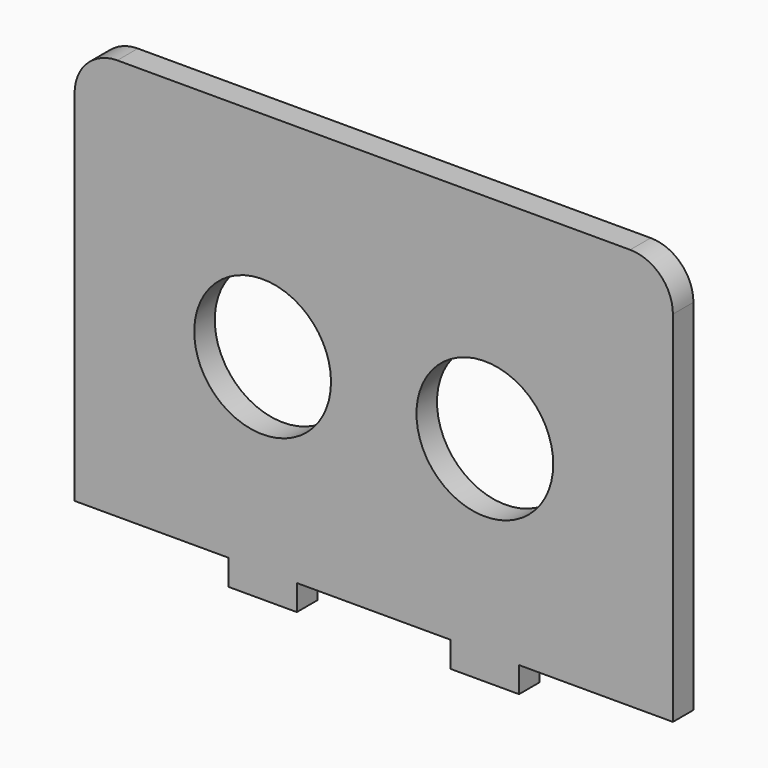
from build123d import *

# Parameters (mm, degrees)
F0_R     = 8
F1_DEPTH = 3


with BuildPart() as f1:
    # F0 (on Front) → F1 (new body)
    with BuildSketch(Plane.XZ):
        with BuildLine():
            Line((30, 25), (-30, 25))
            ThreePointArc((-30, 25), (-33.535534, 23.535534), (-35, 20))
            Line((-35, 20), (-35, -22))
            Line((-35, -22), (-17, -22))
            Line((-17, -22), (-17, -25))
            Line((-17, -25), (-9, -25))
            Line((-9, -25), (-9, -22))
            Line((-9, -22), (9, -22))
            Line((9, -22), (9, -25))
            Line((9, -25), (17, -25))
            Line((17, -25), (17, -22))
            Line((17, -22), (35, -22))
            Line((35, -22), (35, 20))
            ThreePointArc((35, 20), (33.535534, 23.535534), (30, 25))
        make_face()
        with Locations((-13, 0)):
            Circle(F0_R, mode=Mode.SUBTRACT)
        with Locations((13, 0)):
            Circle(F0_R, mode=Mode.SUBTRACT)
    extrude(amount=F1_DEPTH)


solid = f1.part
